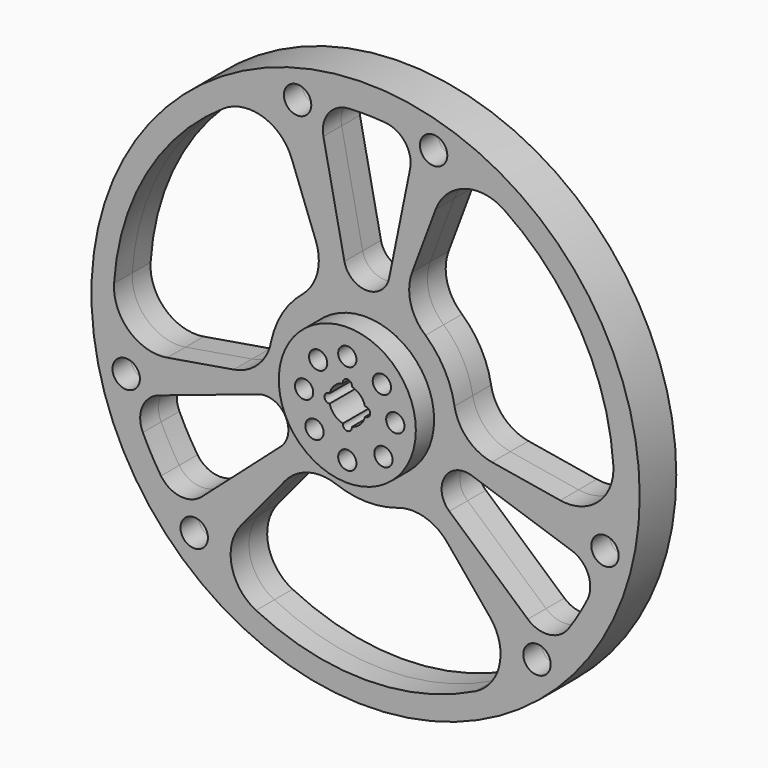
from build123d import *

# Parameters (mm, degrees)
F0_R     = 1524
F0_R_2   = 76.2
F0_R_3   = 381
F1_DEPTH = 127
F0_R_4   = 50.8
F2_DEPTH = 254


with BuildPart() as f1:
    # F0 (on Front) → F1 (new body, symmetric)
    with BuildSketch(Plane.XZ):
        Circle(F0_R)
        with Locations((-952.7934209216, -986.6464701445)):
            Circle(F0_R_2, mode=Mode.SUBTRACT)
        with BuildLine():
            Line((-1149.1018619001, -377.8324998256), (-596.4728429993, -192.9254166804))
            ThreePointArc((-596.4728429993, -192.9254166804), (-446.1899253552, -249.8625208916), (-472.0224055125, -408.4798974318))
            Line((-472.0224055125, -408.4798974318), (-910.4704887044, -796.3859938278))
            ThreePointArc((-910.4704887044, -796.3859938278), (-1030.265251423, -833.4796905965), (-1137.3223116298, -768.1687927721))
            ThreePointArc((-1137.3223116298, -768.1687927721), (-1191.0877169545, -680.1799238955), (-1238.0909604248, -588.4005419017))
            ThreePointArc((-1238.0909604248, -588.4005419017), (-1241.1233269813, -463.0309591958), (-1149.1018619001, -377.8324998256))
        make_face(mode=Mode.SUBTRACT)
        with Locations((-1330.8576181602, -331.8200720045)):
            Circle(F0_R_2, mode=Mode.SUBTRACT)
        with BuildLine():
            ThreePointArc((609.0775800349, -1254.3471353557), (0, -1397), (-609.0775800349, -1254.3471353557))
            ThreePointArc((-609.0775800349, -1254.3471353557), (-744.6718165916, -1079.8699417253), (-692.2780797644, -865.2004645615))
            Line((-692.2780797644, -865.2004645615), (-447.7348448545, -568.5457989211))
            ThreePointArc((-447.7348448545, -568.5457989211), (-318.4905818818, -485.0369152117), (-164.7492065708, -491.4714072045))
            ThreePointArc((-164.7492065708, -491.4714072045), (2.3623913923, -523.5754935991), (170.7004887793, -498.6908898221))
            ThreePointArc((170.7004887793, -498.6908898221), (324.4418640903, -492.2563978293), (453.686127063, -575.7652815387))
            Line((453.686127063, -575.7652815387), (692.2780797645, -865.2004645615))
            ThreePointArc((692.2780797644, -865.2004645615), (744.6718165916, -1079.8699417253), (609.0775800349, -1254.3471353557))
        make_face(mode=Mode.SUBTRACT)
        with Locations((952.7934209216, -986.6464701445)):
            Circle(F0_R_2, mode=Mode.SUBTRACT)
        with BuildLine():
            Line((901.7634741744, -806.2351540287), (465.3147333806, -420.0979263647))
            ThreePointArc((465.3147333806, -420.0979263647), (439.4822532233, -261.4805498245), (589.7651708674, -204.5434456134))
            Line((589.7651708674, -204.5434456134), (1144.9257462252, -390.2975757001))
            ThreePointArc((1144.9257462252, -390.2975757001), (1236.9472113064, -475.4960350704), (1233.9148447499, -600.8656177762))
            ThreePointArc((1233.9148447499, -600.8656177762), (1184.5969517149, -691.4222590705), (1128.6152970998, -778.0179529729))
            ThreePointArc((1128.6152970998, -778.0179529729), (1021.5582368929, -843.3288507973), (901.7634741744, -806.2351540287))
        make_face(mode=Mode.SUBTRACT)
        with Locations((1330.8576181602, -331.8200720045)):
            Circle(F0_R_2, mode=Mode.SUBTRACT)
        with BuildLine():
            ThreePointArc((-276.0662211555, 660.7051201838), (-268.3675379079, 507.0218633014), (-350.8106590896, 377.0951726656))
            ThreePointArc((-350.8106590896, 377.0951726656), (-462.1694124542, 248.4243267599), (-524.7877621136, 90.1969561095))
            ThreePointArc((-524.7877621136, 90.1969561095), (-596.086016243, -46.164226519), (-733.0289624633, -116.3385996921))
            Line((-733.0289624633, -116.3385996921), (-1102.9831600607, -178.2477003587))
            ThreePointArc((-1102.9831600607, -178.2477003587), (-1315.0892491154, -116.2872688683), (-1398.3938129019, 88.3793814118))
            ThreePointArc((-1398.3938129019, 88.3793814118), (-1217.396027589, 687.1824709197), (-789.316232867, 1143.3326957833))
            ThreePointArc((-789.316232867, 1143.3326957833), (-570.4174325237, 1173.522152433), (-410.7050802963, 1020.8131067596))
            Line((-410.7050802963, 1020.8131067596), (-276.0662211555, 660.7051201838))
        make_face(mode=Mode.SUBTRACT)
        with BuildLine():
            ThreePointArc((-357.0606307253, 1245.2184009185), (-438.9202231042, 1364.3248469132), (-301.8641972386, 1318.466542149))
            ThreePointArc((-301.8641972386, 1318.466542149), (-317.208171373, 1272.6082373848), (-357.0606307253, 1245.2184009185))
        make_face(mode=Mode.SUBTRACT)
        Circle(F0_R_3, mode=Mode.SUBTRACT)
        with BuildLine():
            ThreePointArc((702.6619905651, -102.5897285248), (565.7190443448, -32.4153553517), (494.4207902155, 103.9458272768))
            ThreePointArc((494.4207902155, 103.9458272768), (438.667945617, 264.7207595772), (332.9481978895, 398.0635264505))
            ThreePointArc((332.9481978895, 398.0635264505), (250.5050767078, 527.9902170863), (258.2037599554, 681.6734739687))
            Line((258.2037599554, 681.6734739687), (389.5660048514, 1033.0177576581))
            ThreePointArc((389.5660048514, 1033.0177576581), (549.2783570789, 1185.7268033316), (768.1771574221, 1155.5373466818))
            ThreePointArc((768.1771574221, 1155.5373466818), (1196.2569521442, 699.3871218182), (1377.254737457, 100.5840323103))
            ThreePointArc((1377.254737457, 100.5840323103), (1293.9501736705, -104.0826179698), (1081.8440846159, -166.0430494602))
            Line((1081.8440846159, -166.0430494602), (702.6619905651, -102.5897285248))
        make_face(mode=Mode.SUBTRACT)
        with BuildLine():
            ThreePointArc((-234.4552575208, 1186.6835695279), (-206.6819598835, 1308.9757256669), (-96.5925331201, 1369.0344105483))
            ThreePointArc((-96.5925331201, 1369.0344105483), (6.4907652396, 1371.602182966), (109.475663325, 1366.4184948746))
            ThreePointArc((109.475663325, 1366.4184948746), (219.5650900884, 1306.3598099932), (247.3383877257, 1184.0676538542))
            Line((247.3383877257, 1184.0676538542), (131.1581096188, 613.0233430451))
            ThreePointArc((131.1581096188, 613.0233430451), (6.7076721319, 511.3430707161), (-117.7427653549, 613.0233430451))
            Line((-117.7427653549, 613.0233430451), (-234.4552575208, 1186.6835695279))
        make_face(mode=Mode.SUBTRACT)
        with BuildLine():
            ThreePointArc((357.0606307253, 1245.2184009185), (332.2058924744, 1379.3225680146), (454.2641972386, 1318.466542149))
            ThreePointArc((454.2641972386, 1318.466542149), (423.9225020028, 1257.6105162834), (357.0606307253, 1245.2184009185))
        make_face(mode=Mode.SUBTRACT)
    extrude(amount=F1_DEPTH, both=True)

    # F0 (on Front) → F2 (join, symmetric)
    with BuildSketch(Plane.XZ):
        Circle(F0_R_3)
        with Locations((-182.4344820172, -177.5781776749)):
            Circle(F0_R_4, mode=Mode.SUBTRACT)
        with Locations((0, -269.3450250997)):
            Circle(F0_R_4, mode=Mode.SUBTRACT)
        with Locations((200.8247340771, -187.0051714751)):
            Circle(F0_R_4, mode=Mode.SUBTRACT)
        with Locations((-240.2218094835, 0)):
            Circle(F0_R_4, mode=Mode.SUBTRACT)
        with Locations((-162.2444029219, 167.8896918852)):
            Circle(F0_R_4, mode=Mode.SUBTRACT)
        with BuildLine():
            ThreePointArc((-98.425, 25.2007812379), (-71.8420489686, 71.8420489686), (-25.2007812379, 98.425))
            ThreePointArc((-25.2007812379, 98.425), (0, 127), (25.2007812379, 98.425))
            ThreePointArc((25.2007812379, 98.425), (71.8420489686, 71.8420489686), (98.425, 25.2007812379))
            ThreePointArc((98.425, 25.2007812379), (127, 0), (98.425, -25.2007812379))
            ThreePointArc((98.425, -25.2007812379), (71.8420489686, -71.8420489686), (25.2007812379, -98.425))
            ThreePointArc((25.2007812379, -98.425), (0, -127), (-25.2007812379, -98.425))
            ThreePointArc((-25.2007812379, -98.425), (-71.8420489686, -71.8420489686), (-98.425, -25.2007812379))
            ThreePointArc((-98.425, -25.2007812379), (-127, 0), (-98.425, 25.2007812379))
        make_face(mode=Mode.SUBTRACT)
        with Locations((266.8076828881, 0)):
            Circle(F0_R_4, mode=Mode.SUBTRACT)
        with Locations((192.0878742949, 164.718566435)):
            Circle(F0_R_4, mode=Mode.SUBTRACT)
        with Locations((0, 237.9588200812)):
            Circle(F0_R_4, mode=Mode.SUBTRACT)
    extrude(amount=F2_DEPTH, both=True)


solid = f1.part
